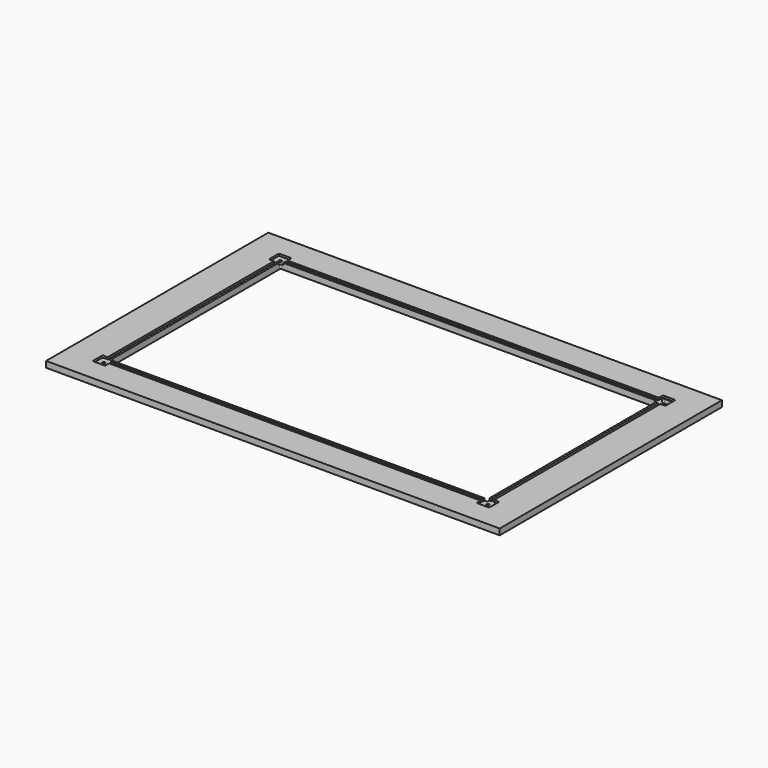
from build123d import *

# Parameters (mm, degrees)
F0_W     = 1119.75
F0_H     = 685.75
F1_DEPTH = 15
F3_DEPTH = 5
F4_R     = 3.5
F5_DEPTH = 10
F7_DEPTH = 15


with BuildPart() as f1:
    # F0 (on Top) → F1 (new body)
    with BuildSketch(Plane.XY):
        Rectangle(F0_W, F0_H)
    extrude(amount=F1_DEPTH)

    # F2 (on face) → F3 (cut)
    with BuildSketch(Plane.XY.offset(15)):
        with BuildLine():
            Line((0, 269), (0, 275))
            Line((0, 275), (-458.5, 275))
            Line((-458.5, 275), (-458.5, 284.5))
            ThreePointArc((-458.5, 284.5), (-459.37868, 286.62132), (-461.5, 287.5))
            Line((-461.5, 287.5), (-486.5, 287.5))
            ThreePointArc((-486.5, 287.5), (-488.62132, 286.62132), (-489.5, 284.5))
            Line((-489.5, 284.5), (-489.5, 259.5))
            ThreePointArc((-489.5, 259.5), (-488.62132, 257.37868), (-486.5, 256.5))
            Line((-486.5, 256.5), (-477, 256.5))
            Line((-477, 256.5), (-477, 0))
            Line((-477, 0), (-471, 0))
            Line((-471, 0), (-471, 256.5))
            Line((-471, 256.5), (-461.5, 256.5))
            ThreePointArc((-461.5, 256.5), (-459.37868, 257.37868), (-458.5, 259.5))
            Line((-458.5, 259.5), (-458.5, 269))
            Line((-458.5, 269), (0, 269))
        make_face()
        with BuildLine():
            Line((458.5, 275), (0, 275))
            Line((0, 275), (0, 269))
            Line((0, 269), (458.5, 269))
            Line((458.5, 269), (458.5, 259.5))
            ThreePointArc((458.5, 259.5), (459.37868, 257.37868), (461.5, 256.5))
            Line((461.5, 256.5), (471, 256.5))
            Line((471, 256.5), (471, 0))
            Line((471, 0), (471, -256.5))
            Line((471, -256.5), (461.5, -256.5))
            ThreePointArc((461.5, -256.5), (459.37868, -257.37868), (458.5, -259.5))
            Line((458.5, -259.5), (458.5, -269))
            Line((458.5, -269), (0, -269))
            Line((0, -269), (-458.5, -269))
            Line((-458.5, -269), (-458.5, -259.5))
            ThreePointArc((-458.5, -259.5), (-459.37868, -257.37868), (-461.5, -256.5))
            Line((-461.5, -256.5), (-471, -256.5))
            Line((-471, -256.5), (-471, 0))
            Line((-471, 0), (-477, 0))
            Line((-477, 0), (-477, -256.5))
            Line((-477, -256.5), (-486.5, -256.5))
            ThreePointArc((-486.5, -256.5), (-488.62132, -257.37868), (-489.5, -259.5))
            Line((-489.5, -259.5), (-489.5, -284.5))
            ThreePointArc((-489.5, -284.5), (-488.62132, -286.62132), (-486.5, -287.5))
            Line((-486.5, -287.5), (-461.5, -287.5))
            ThreePointArc((-461.5, -287.5), (-459.37868, -286.62132), (-458.5, -284.5))
            Line((-458.5, -284.5), (-458.5, -275))
            Line((-458.5, -275), (0, -275))
            Line((0, -275), (458.5, -275))
            Line((458.5, -275), (458.5, -284.5))
            ThreePointArc((458.5, -284.5), (459.37868, -286.62132), (461.5, -287.5))
            Line((461.5, -287.5), (486.5, -287.5))
            ThreePointArc((486.5, -287.5), (488.62132, -286.62132), (489.5, -284.5))
            Line((489.5, -284.5), (489.5, -259.5))
            ThreePointArc((489.5, -259.5), (488.62132, -257.37868), (486.5, -256.5))
            Line((486.5, -256.5), (477, -256.5))
            Line((477, -256.5), (477, 0))
            Line((477, 0), (477, 256.5))
            Line((477, 256.5), (486.5, 256.5))
            ThreePointArc((486.5, 256.5), (488.62132, 257.37868), (489.5, 259.5))
            Line((489.5, 259.5), (489.5, 284.5))
            ThreePointArc((489.5, 284.5), (488.62132, 286.62132), (486.5, 287.5))
            Line((486.5, 287.5), (461.5, 287.5))
            ThreePointArc((461.5, 287.5), (459.37868, 286.62132), (458.5, 284.5))
            Line((458.5, 284.5), (458.5, 275))
        make_face()
    extrude(amount=-F3_DEPTH, mode=Mode.SUBTRACT)

    # F4 (on face) → F5 (cut, through all)
    with BuildSketch(Plane.XY.offset(10)):
        with Locations((-474, 272)):
            Circle(F4_R)
        with Locations((474, -272)):
            Circle(F4_R)
        with Locations((-474, -272)):
            Circle(F4_R)
        with BuildLine():
            Line((484.5, 285.5), (463.5, 285.5))
            ThreePointArc((463.5, 285.5), (460.744077, 283.68528), (461.322307, 280.436592))
            Line((461.322307, 280.436592), (471.531947, 269.661471))
            ThreePointArc((471.531947, 269.661471), (472.656683, 268.876621), (474, 268.6))
            Line((474, 268.6), (484.5, 268.6))
            ThreePointArc((484.5, 268.6), (486.62132, 269.47868), (487.5, 271.6))
            Line((487.5, 271.6), (487.5, 282.5))
            ThreePointArc((487.5, 282.5), (486.62132, 284.62132), (484.5, 285.5))
        make_face()
    extrude(amount=-F5_DEPTH, mode=Mode.SUBTRACT)

    # F6 (on face) → F7 (cut, through all)
    with BuildSketch(Plane.XY.offset(15)):
        with BuildLine():
            Line((462.5, 262.5), (-462.5, 262.5))
            ThreePointArc((-462.5, 262.5), (-464.62132, 261.62132), (-465.5, 259.5))
            Line((-465.5, 259.5), (-465.5, -259.5))
            ThreePointArc((-465.5, -259.5), (-464.62132, -261.62132), (-462.5, -262.5))
            Line((-462.5, -262.5), (462.5, -262.5))
            ThreePointArc((462.5, -262.5), (464.62132, -261.62132), (465.5, -259.5))
            Line((465.5, -259.5), (465.5, 259.5))
            ThreePointArc((465.5, 259.5), (464.62132, 261.62132), (462.5, 262.5))
        make_face()
    extrude(amount=-F7_DEPTH, mode=Mode.SUBTRACT)


solid = f1.part
